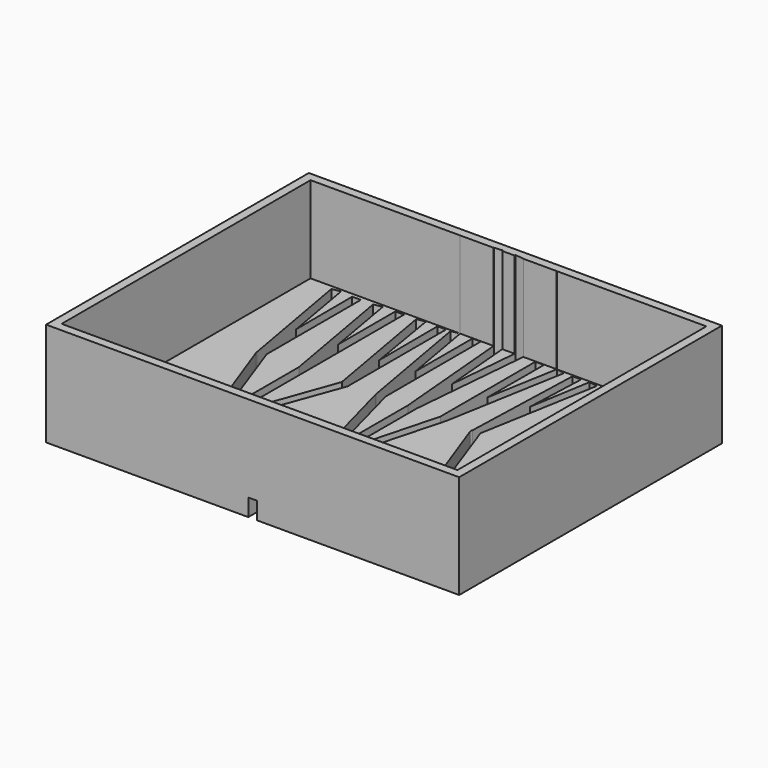
from build123d import *

# Parameters (mm, degrees)
F1_DEPTH = 10
F2_W     = 5
F2_H     = 5
F2_W_2   = 112
F2_H_2   = 175.8788333833
F3_DEPTH = 50


with BuildPart() as f1:
    # F0 (on Top) → F1 (new body)
    with BuildSketch(Plane.XY):
        with BuildLine():
            Line((86.2209709888, -31.5977521241), (25.5991927239, -66.5977521241))
            Line((25.5991927239, -66.5977521241), (25.5991927239, -76.5977521241))
            Line((25.5991927239, -76.5977521241), (142.5991927239, -76.5977521241))
            Line((142.5991927239, -76.5977521241), (142.5991927239, 113.4022478759))
            Line((142.5991927239, 113.4022478759), (-96.4008072761, 113.4022478759))
            Line((-96.4008072761, 113.4022478759), (-96.4008072761, -76.5977521241))
            Line((-96.4008072761, -76.5977521241), (20.5991927239, -76.5977521241))
            Line((20.5991927239, -76.5977521241), (20.5991927239, -66.5977521241))
            Line((20.5991927239, -66.5977521241), (-40.022585541, -31.5977521241))
            ThreePointArc((-40.022585541, -31.5977521241), (-40.9554062839, -30.6514148366), (-41.2715508997, -29.3607710507))
            Line((-41.2715508997, -29.3607710507), (-65.1872733153, 36.3471362561))
            ThreePointArc((-65.1872733153, 36.3471362561), (-65.299594413, 36.765427467), (-65.3380360189, 37.1968272921))
            Line((-65.3380360189, 37.1968272921), (-77.5682214131, 106.1255387952))
            Line((-77.5682214131, 106.1255387952), (-72.6441826481, 106.9937796835))
            Line((-72.6441826481, 106.9937796835), (-65.3128655033, 65.4158140463))
            Line((-65.3128655033, 65.4158140463), (-65.4888102114, 106.1387293252))
            Line((-65.4888102114, 106.1387293252), (-60.4888102114, 106.1387293252))
            Line((-60.4888102114, 106.1387293252), (-60.4888102114, 38.0572369727))
            Line((-60.4888102114, 38.0572369727), (-60.1816628514, 37.2021866144))
            Line((-60.1816628514, 37.2021866144), (-41.2458632825, 37.2021866144))
            Line((-41.2458632825, 37.2021866144), (-53.4012357192, 106.1387293252))
            Line((-53.4012357192, 106.1387293252), (-48.4771969541, 107.0069702136))
            Line((-48.4771969541, 107.0069702136), (-41.2458632825, 65.7374164892))
            Line((-41.2458632825, 65.7374164892), (-41.2458632825, 106.9938002617))
            Line((-41.2458632825, 106.9938002617), (-36.2458632825, 106.9938002617))
            Line((-36.2458632825, 106.9938002617), (-36.2458632825, 37.2021866144))
            Line((-36.2458632825, 37.2021866144), (-36.2458632825, -15.5121263044))
            Line((-36.2458632825, -15.5121263044), (-17.0029098654, 38.0572575508))
            Line((-17.0029098654, 38.0572575508), (-29.1582823021, 106.9938002617))
            Line((-29.1582823021, 106.9938002617), (-24.234243537, 107.86204115))
            Line((-24.234243537, 107.86204115), (-17.1207785738, 65.2193512955))
            Line((-17.1207785738, 65.2193512955), (-17.3044467615, 107.5445162737))
            Line((-17.3044467615, 107.5445162737), (-12.3044467615, 107.5445162737))
            Line((-12.3044467615, 107.5445162737), (-12.3044467615, 38.0572575508))
            ThreePointArc((-12.3044467615, 38.0572575508), (-12.1916589309, 37.6363276367), (-12.1536783134, 37.2022071925))
            ThreePointArc((-12.1536783134, 37.2022071925), (-12.1916589309, 36.7680867483), (-12.3044467615, 36.3471568342))
            Line((-12.3044467615, 36.3471568342), (-35.8167873917, -28.2524681259))
            Line((-35.8167873917, -28.2524681259), (-33.772585541, -29.4326886146))
            Line((-33.772585541, -29.4326886146), (20.5991927239, -29.4326886146))
            Line((20.5991927239, -29.4326886146), (2.4818595667, 38.1821192256))
            ThreePointArc((2.4818595667, 38.1821192256), (2.4347721068, 38.3943813555), (2.4063054657, 38.6099320248))
            Line((2.4063054657, 38.6099320248), (-9.7679225036, 107.5445162737))
            Line((-9.7679225036, 107.5445162737), (-4.8438837385, 108.412757162))
            Line((-4.8438837385, 108.412757162), (2.4818595667, 66.8664023398))
            Line((2.4818595667, 66.8664023398), (2.4818595667, 108.0871745944))
            Line((2.4818595667, 108.0871745944), (7.3114886982, 108.0871745944))
            Line((7.3114886982, 108.0871745944), (7.3114886982, 39.4762144511))
            Line((7.3114886982, 39.4762144511), (7.4832083847, 38.8291668384))
            Line((7.4832083847, 38.8291668384), (20.5991927239, 38.8291668384))
            Line((20.5991927239, 38.8291668384), (14.4982907316, 108.5627957048))
            Line((14.4982907316, 108.5627957048), (19.479264222, 108.9985744185))
            Line((19.479264222, 108.9985744185), (23.0991927239, 67.4934753996))
            Line((23.0991927239, 67.4934753996), (26.7191212258, 108.9985744185))
            Line((26.7191212258, 108.9985744185), (31.7000947162, 108.5627957048))
            Line((31.7000947162, 108.5627957048), (25.5991927239, 38.8291668384))
            Line((25.5991927239, 38.8291668384), (25.5991927239, -10.5924605114))
            Line((25.5991927239, -10.5924605114), (38.8868967496, 39.4762144511))
            Line((38.8868967496, 39.4762144511), (38.8868967496, 108.0871745944))
            Line((38.8868967496, 108.0871745944), (43.8868967496, 108.0871745944))
            Line((43.8868967496, 108.0871745944), (43.7874143185, 67.2684306459))
            Line((43.7874143185, 67.2684306459), (51.0422691863, 108.412757162))
            Line((51.0422691863, 108.412757162), (55.9663079514, 107.5445162737))
            Line((55.9663079514, 107.5445162737), (43.7920799821, 38.6099320248))
            ThreePointArc((43.7920799821, 38.6099320248), (43.763613341, 38.3943813555), (43.7165258811, 38.1821192256))
            Line((43.7165258811, 38.1821192256), (25.5991927239, -29.4326886146))
            Line((25.5991927239, -29.4326886146), (25.5991927239, -60.8242494322))
            Line((25.5991927239, -60.8242494322), (82.0211007138, -28.249045666))
            Line((82.0211007138, -28.249045666), (58.5309586011, 36.2895893685))
            ThreePointArc((58.5309586011, 36.2895893685), (58.3815477723, 37.2270184447), (58.5923799556, 38.1525705281))
            Line((58.5923799556, 38.1525705281), (60.8801901531, 107.5445162737))
            Line((60.8801901531, 107.5445162737), (65.8774749146, 107.379758838))
            Line((65.8774749146, 107.379758838), (64.5387270896, 72.304022517))
            Line((64.5387270896, 72.304022517), (70.4607553767, 107.8044736843))
            Line((70.4607553767, 107.8044736843), (75.3847941417, 106.936232796))
            Line((75.3847941417, 106.936232796), (63.229421705, 37.9996900851))
            Line((63.229421705, 37.9996900851), (63.536569065, 37.1446397268))
            Line((63.536569065, 37.1446397268), (82.4723686339, 37.1446397268))
            Line((82.4723686339, 37.1446397268), (82.4723686339, 106.936232796))
            Line((82.4723686339, 106.936232796), (87.4723686339, 106.936232796))
            Line((87.4723686339, 106.936232796), (87.4723686339, 65.5010488249))
            Line((87.4723686339, 65.5010488249), (94.6277410706, 106.0811824377))
            Line((94.6277410706, 106.0811824377), (99.5517798357, 105.2129415493))
            Line((99.5517798357, 105.2129415493), (87.4723686339, 37.1446397268))
            Line((87.4723686339, 37.1446397268), (87.4723686339, -15.5696737109))
            Line((87.4723686339, -15.5696737109), (106.7153155628, 37.9996900851))
            Line((106.7153155628, 37.9996900851), (106.7153155628, 105.2129415493))
            Line((106.7153155628, 105.2129415493), (111.7153155628, 105.2129415493))
            Line((111.7153155628, 105.2129415493), (111.5409932174, 65.3674680349))
            Line((111.5409932174, 65.3674680349), (118.8706879995, 106.936232796))
            Line((118.8706879995, 106.936232796), (123.7947267645, 106.0679919077))
            Line((123.7947267645, 106.0679919077), (111.5645413703, 37.1392804046))
            ThreePointArc((111.5645413703, 37.1392804046), (111.5260997644, 36.7078805795), (111.4137786667, 36.2895893685))
            Line((111.4137786667, 36.2895893685), (87.4723686339, -29.4888940865))
            Line((87.4723686339, -29.4888940865), (87.4704533123, -29.4835621298))
            ThreePointArc((87.4704533123, -29.4835621298), (87.1232033779, -30.7046539221), (86.2209709888, -31.5977521241))
        make_face()
        Polygon((-33.772585541, -29.4326886146), (20.5991927239, -60.8242494322), (20.5991927239, -29.4326886146), align=None)
        Polygon((-60.1816628514, 37.2021866144), (-41.2458632825, -15.5121268233), (-41.2458632825, 37.2021866144), align=None)
        Polygon((7.4832083847, 38.8291668384), (20.5991927239, -10.5924605114), (20.5991927239, 38.8291668384), align=None)
        Polygon((63.536569065, 37.1446397268), (82.4723686339, -15.5696737109), (82.4723686339, 37.1446397268), align=None)
    extrude(amount=F1_DEPTH)

    # F2 (on face) → F3 (join)
    with BuildSketch(Plane.XY.offset(10)):
        with Locations((23.0991927239, -74.0977521241)):
            Rectangle(F2_W, F2_H)
        Polygon((25.5991927239, -71.5977521241), (25.5991927239, -76.5977521241), (142.5991927239, -76.5977521241), (142.5991927239, -67.4765855074), (137.5991927239, -67.4765855074), (137.5991927239, -71.5977521241), align=None)
        with Locations((-35.4008072761, -74.0977521241)):
            Rectangle(F2_W_2, F2_H)
        Polygon((-96.4008072761, 113.4022478759), (-96.4008072761, -76.5977521241), (-91.4008072761, -76.5977521241), (-91.4008072761, -71.5977521241), (-91.4008072761, 108.4022478759), (-91.4008072761, 113.4022478759), align=None)
        with Locations((140.0991927239, 20.4628311843)):
            Rectangle(F2_W, F2_H_2)
        Polygon((142.5991927239, 113.4022478759), (-91.4008072761, 113.4022478759), (-91.4008072761, 108.4022478759), (-4.9034848615, 108.4022478759), (-4.8438837385, 108.412757162), (-4.8420306678, 108.4022478759), (14.5123368465, 108.4022478759), (14.4982907316, 108.5627957048), (19.479264222, 108.9985744185), (19.531273722, 108.4022478759), (26.6671117258, 108.4022478759), (26.7191212258, 108.9985744185), (31.7000947162, 108.5627957048), (31.6860486013, 108.4022478759), (51.0404161156, 108.4022478759), (51.0422691863, 108.412757162), (51.1018703093, 108.4022478759), (137.5991927239, 108.4022478759), (142.5991927239, 108.4022478759), align=None)
    extrude(amount=F3_DEPTH)


solid = f1.part
